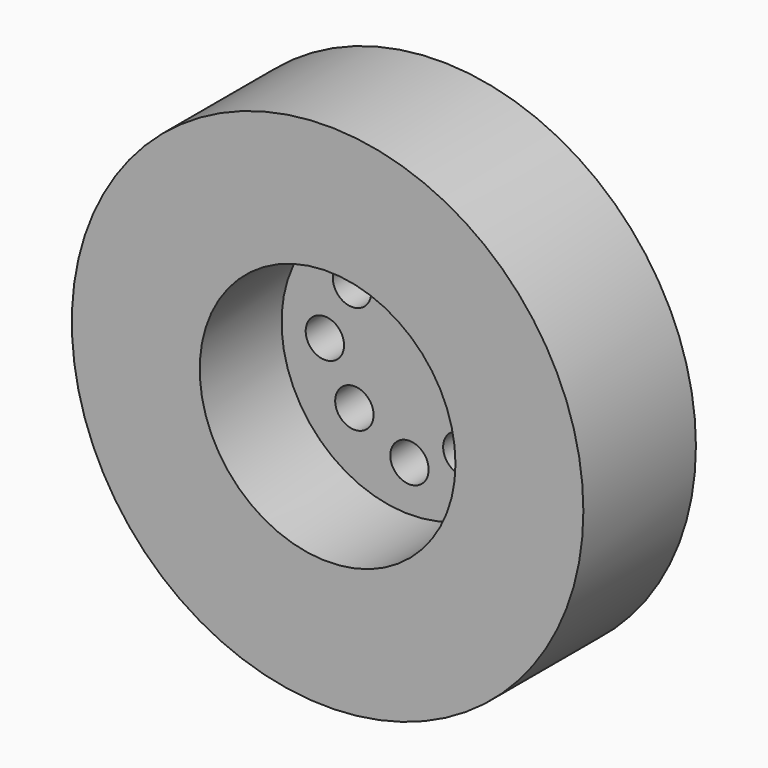
from build123d import *

# Parameters (mm, degrees)
F0_R     = 3
F1_DEPTH = 9
F2_R     = 3
F3_DEPTH = 9.5
F2_R_2   = 20
F4_DEPTH = 11
F5_R     = 10
F6_DEPTH = 8
F7_R     = 1.5
F8_DEPTH = 8


with BuildPart() as f1:
    # F0 (on Front) → F1 (new body)
    with BuildSketch(Plane.XZ):
        Circle(F0_R)
    extrude(amount=-F1_DEPTH)

    # F2 (on face) → F3 (join)
    with BuildSketch(Plane.XZ):
        Circle(F2_R)
    extrude(amount=F3_DEPTH)

    # F2 (on face) → F4 (join)
    with BuildSketch(Plane.XZ):
        Circle(F2_R_2)
    extrude(amount=F4_DEPTH)

    # F5 (on face) → F6 (cut)
    with BuildSketch(Plane.XZ.offset(11)):
        Circle(F5_R)
    extrude(amount=-F6_DEPTH, mode=Mode.SUBTRACT)

    # F7 (on face) → F8 (cut)
    with BuildSketch(Plane.XZ.offset(3)):
        with Locations((6.463317, -0.03593)):
            Circle(F7_R)
        with Locations((4.35309, 4.115115)):
            Circle(F7_R)
        with Locations((0, 6.331937)):
            Circle(F7_R)
        with Locations((-4.484795, 4.320276)):
            Circle(F7_R)
        with Locations((-6.611656, -0.013489)):
            Circle(F7_R)
        with Locations((-4.305509, -4.068238)):
            Circle(F7_R)
        with Locations((0.001843, -6.426248)):
            Circle(F7_R)
        with Locations((4.135434, -4.499229)):
            Circle(F7_R)
    extrude(amount=-F8_DEPTH, mode=Mode.SUBTRACT)


solid = f1.part
